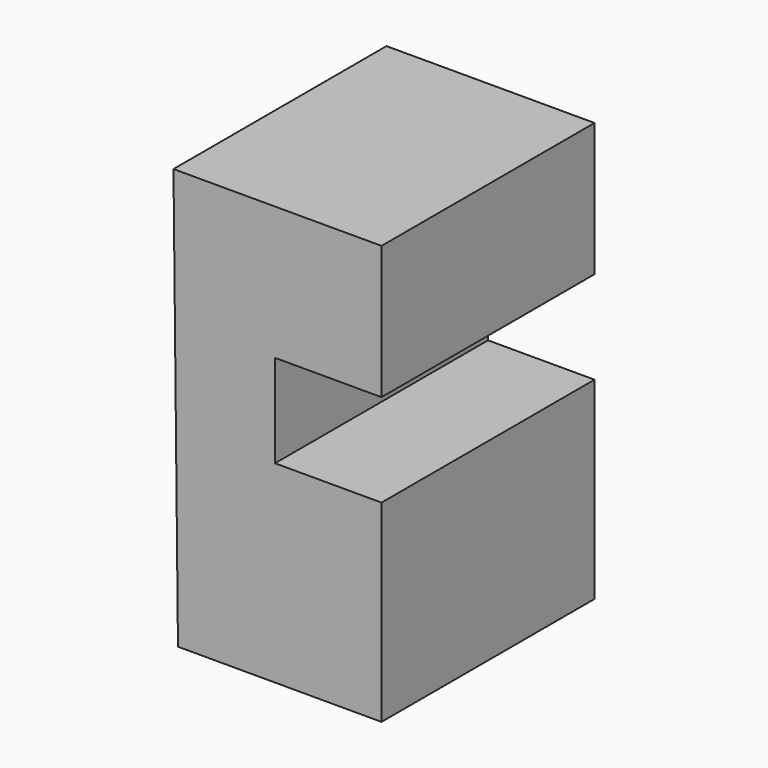
from build123d import *

# Parameters (mm, degrees)
F1_DEPTH      = 25
F1_DEPTH_BACK = 25


with BuildPart() as f1:
    # F0 (on Front) → F1 (new body, two sides)
    with BuildSketch(Plane.XZ) as f1_sk:
        Polygon((0, 78.701131), (-39.069489, 78.701131), (-38.226265, 0), (0, 0), (0, 36.258736), (-20, 36.258736), (-20, 53.685416), (0, 53.685416), align=None)
    extrude(amount=F1_DEPTH)
    extrude(f1_sk.sketch, amount=-F1_DEPTH_BACK)


solid = f1.part
